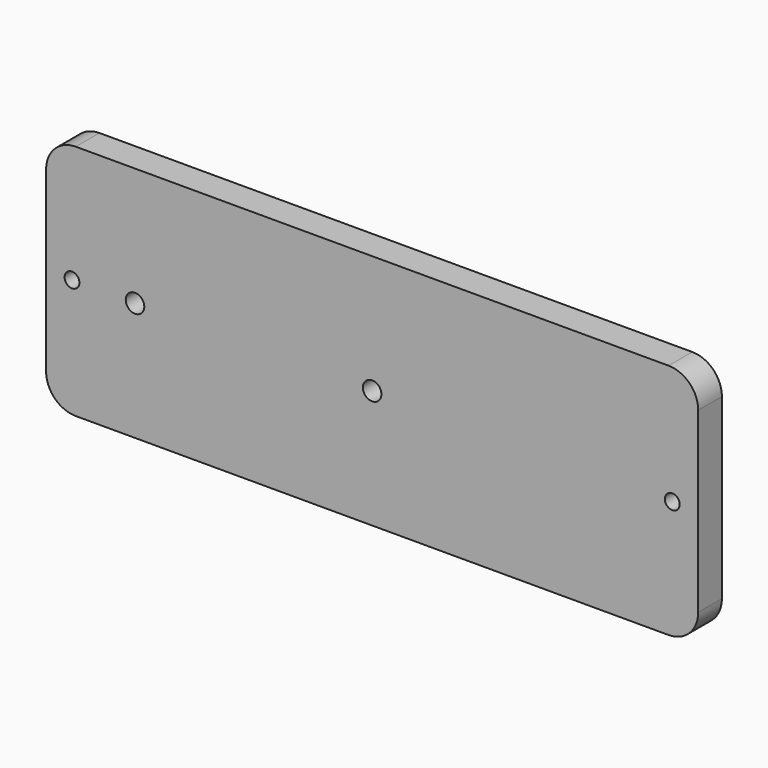
from build123d import *

# Parameters (mm, degrees)
F0_W           = 279.4
F0_H           = 101.6
F1_DEPTH       = 12.7
F2_D           = 6.35
F2_CSINK_D     = 12.7
F2_CSINK_ANGLE = 82
F3_D           = 7.9375
F4_R           = 12.7


with BuildPart() as f1:
    # F0 (on Front) → F1 (new body)
    with BuildSketch(Plane.XZ):
        with Locations((0, -50.8)):
            Rectangle(F0_W, F0_H)
    extrude(amount=F1_DEPTH)

    # F2 (through all)
    with Locations(Plane(origin=(0, 0, 0), x_dir=(1, 0, 0), z_dir=(0, 1, 0))):
        with Locations((-128.5875, 50.8), (128.5875, 50.8)):
            CounterSinkHole(F2_D / 2, F2_CSINK_D / 2, counter_sink_angle=F2_CSINK_ANGLE)

    # F3 (through all)
    with Locations(Plane(origin=(0, 0, 0), x_dir=(1, 0, 0), z_dir=(0, 1, 0))):
        with Locations((-101.6, 50.8), (0, 50.8)):
            Hole(F3_D / 2)

    # F4
    f4_edges = [f1.edges().sort_by_distance(p)[0] for p in [
        (139.7, -6.35, 0),
        (139.7, -6.35, -101.6),
        (-139.7, -6.35, -101.6),
        (-139.7, -6.35, 0),
    ]]
    fillet(f4_edges, radius=F4_R)


solid = f1.part
